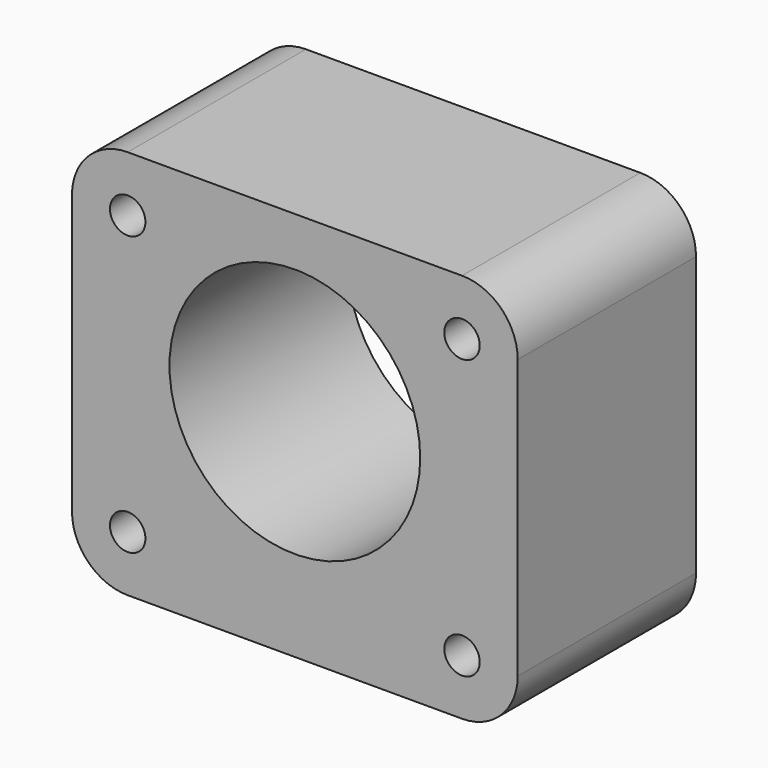
from build123d import *

# Parameters (mm, degrees)
F0_W     = 50.8
F0_H     = 44.45
F0_R     = 2.0193
F0_R_2   = 14.2875
F1_DEPTH = 12.7
F2_R     = 6.35


with BuildPart() as f1:
    # F0 (on Front) → F1 (new body, symmetric)
    with BuildSketch(Plane.XZ):
        Rectangle(F0_W, F0_H)
        with Locations((-19.05, -15.875)):
            Circle(F0_R, mode=Mode.SUBTRACT)
        with Locations((19.05, -15.875)):
            Circle(F0_R, mode=Mode.SUBTRACT)
        with Locations((0, 2.38125)):
            Circle(F0_R_2, mode=Mode.SUBTRACT)
        with Locations((-19.05, 15.875)):
            Circle(F0_R, mode=Mode.SUBTRACT)
        with Locations((19.05, 15.875)):
            Circle(F0_R, mode=Mode.SUBTRACT)
    extrude(amount=F1_DEPTH, both=True)

    # F2
    f2_edges = [f1.edges().sort_by_distance(p)[0] for p in [
        (25.4, 0, -22.225),
        (25.4, 0, 22.225),
        (-25.4, 0, 22.225),
        (-25.4, 0, -22.225),
    ]]
    fillet(f2_edges, radius=F2_R)


solid = f1.part
